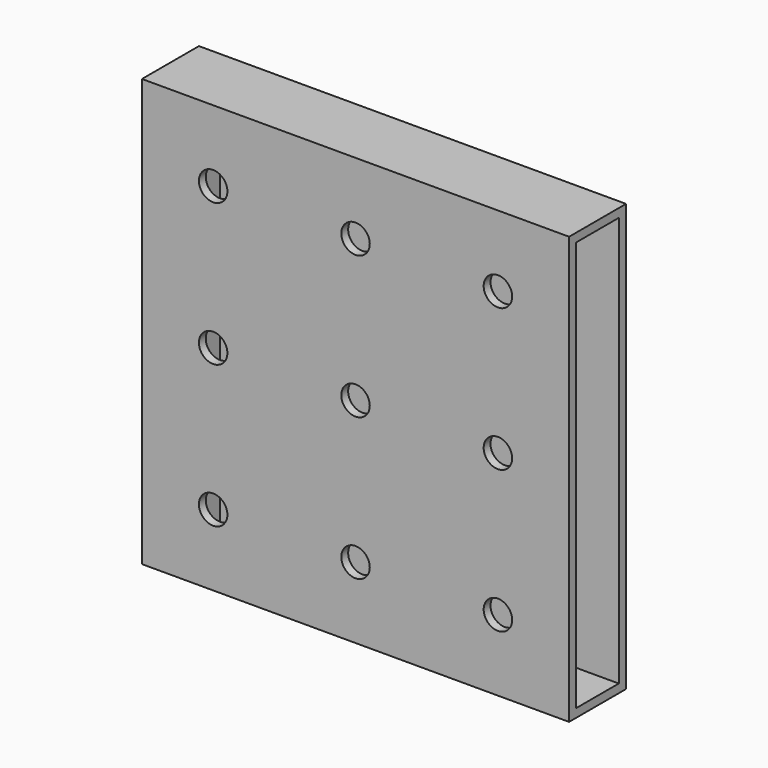
from build123d import *

# Parameters (mm, degrees)
F0_R     = 2.54
F0_W     = 25.4
F0_H     = 25.4
F1_DEPTH = 12.7
F2_W     = 9.547732
F2_H     = 73.135637
F3_DEPTH = 71.12


with BuildPart() as f1:
    # F0 (on Front) → F1 (new body)
    with BuildSketch(Plane.XZ):
        Polygon((-18.806005, 40.205049), (-44.206005, 40.205049), (-44.206005, 14.805049), (-40.768821, 14.805049), (-18.806005, 14.805049), align=None)
        with Locations((-31.506005, 27.505049)):
            Circle(F0_R, mode=Mode.SUBTRACT)
        Polygon((-40.768821, 14.805049), (-44.206005, 14.805049), (-44.206005, -10.594951), (-18.806005, -10.594951), (-18.806005, 14.805049), align=None)
        with Locations((-31.506005, 2.105049)):
            Circle(F0_R, mode=Mode.SUBTRACT)
        with Locations((-6.106005, 27.505049)):
            Rectangle(F0_W, F0_H)
        with Locations((-6.106005, 27.505049)):
            Circle(F0_R, mode=Mode.SUBTRACT)
        with Locations((-31.506005, -23.294951)):
            Rectangle(F0_W, F0_H)
        with Locations((-31.506005, -23.294951)):
            Circle(F0_R, mode=Mode.SUBTRACT)
        with Locations((19.293995, 27.505049)):
            Rectangle(F0_W, F0_H)
        with Locations((19.293995, 27.505049)):
            Circle(F0_R, mode=Mode.SUBTRACT)
        with Locations((-6.106005, -23.294951)):
            Rectangle(F0_W, F0_H)
        with Locations((-6.106005, -23.294951)):
            Circle(F0_R, mode=Mode.SUBTRACT)
        with Locations((19.293995, 2.105049)):
            Rectangle(F0_W, F0_H)
        with Locations((19.293995, 2.105049)):
            Circle(F0_R, mode=Mode.SUBTRACT)
        with Locations((19.293995, -23.294951)):
            Rectangle(F0_W, F0_H)
        with Locations((19.293995, -23.294951)):
            Circle(F0_R, mode=Mode.SUBTRACT)
        with Locations((-6.106005, 2.105049)):
            Rectangle(F0_W, F0_H)
        with Locations((-6.106005, 2.105049)):
            Circle(F0_R, mode=Mode.SUBTRACT)
    extrude(amount=F1_DEPTH)

    # F2 (on face) → F3 (cut)
    with BuildSketch(Plane.YZ.offset(31.993995)):
        with Locations((-6.396981, 2.100502)):
            Rectangle(F2_W, F2_H)
    extrude(amount=-F3_DEPTH, mode=Mode.SUBTRACT)


solid = f1.part
